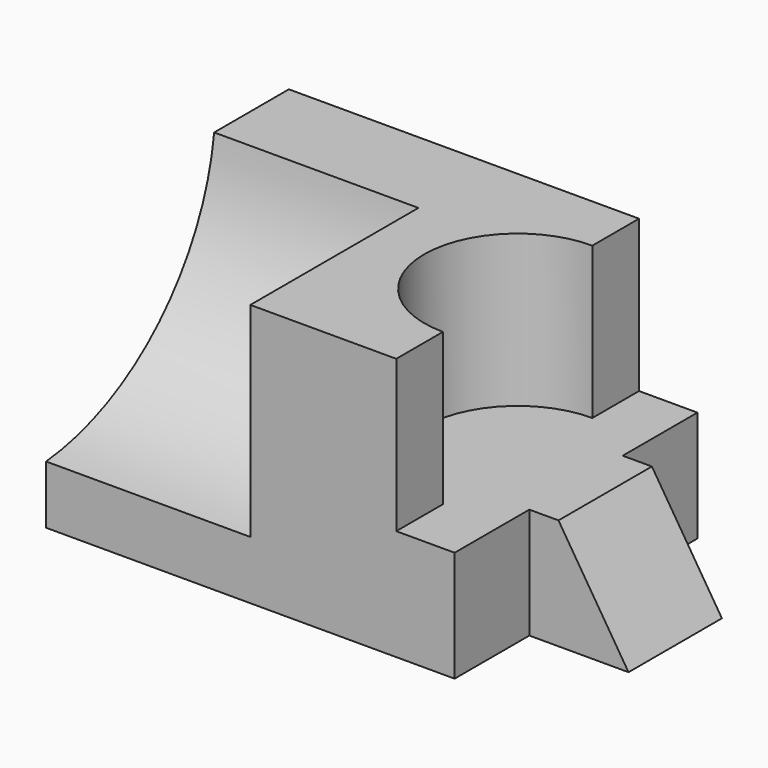
from build123d import *

# Parameters (mm, degrees)
F1_W     = 70
F1_H     = 52
F2_DEPTH = 45
F5_DEPTH = 26
F7_DEPTH = 35
F9_DEPTH = 10


with BuildPart() as f2:
    # F1 (on offset) → F2 (new body)
    with BuildSketch(Plane.XY.offset(-19)):
        Rectangle(F1_W, F1_H)
    extrude(amount=F2_DEPTH)

    # F4 (on offset) → F5 (cut)
    with BuildSketch(Plane.XY.offset(26)):
        with BuildLine():
            ThreePointArc((25, -16), (36.313708499, -11.313708499), (41, 0))
            ThreePointArc((41, 0), (36.313708499, 11.313708499), (25, 16))
            Line((25, 16), (25, -16))
        make_face()
        with BuildLine():
            ThreePointArc((25, 16), (36.313708499, 11.313708499), (41, 0))
            ThreePointArc((41, 0), (36.313708499, -11.313708499), (25, -16))
            Line((25, -16), (25, -30.2792843431))
            Line((25, -30.2792843431), (53.9182461798, -30.2792843431))
            Line((53.9182461798, -30.2792843431), (53.9182461798, 29.1735101491))
            Line((53.9182461798, 29.1735101491), (25, 28.9641693234))
            Line((25, 28.9641693234), (25, 16))
        make_face()
        with BuildLine():
            Line((25, -16), (25, 16))
            ThreePointArc((25, 16), (9, 0), (25, -16))
        make_face()
    extrude(amount=-F5_DEPTH, mode=Mode.SUBTRACT)

    # F6 (on Right) → F7 (cut, through all)
    with BuildSketch(Plane.YZ):
        with BuildLine():
            ThreePointArc((-26, -9), (-1.8244495378, 2.1480052389), (10, 26))
            Line((10, 26), (-26, 26))
            Line((-26, 26), (-26, -9))
        make_face()
    extrude(amount=-F7_DEPTH, mode=Mode.SUBTRACT)

    # F8 (on Front) → F9 (join, symmetric)
    with BuildSketch(Plane.XZ):
        Polygon((0, 0), (0, -19), (52, -19), (40, 0), align=None)
    extrude(amount=F9_DEPTH, both=True)


solid = f2.part
